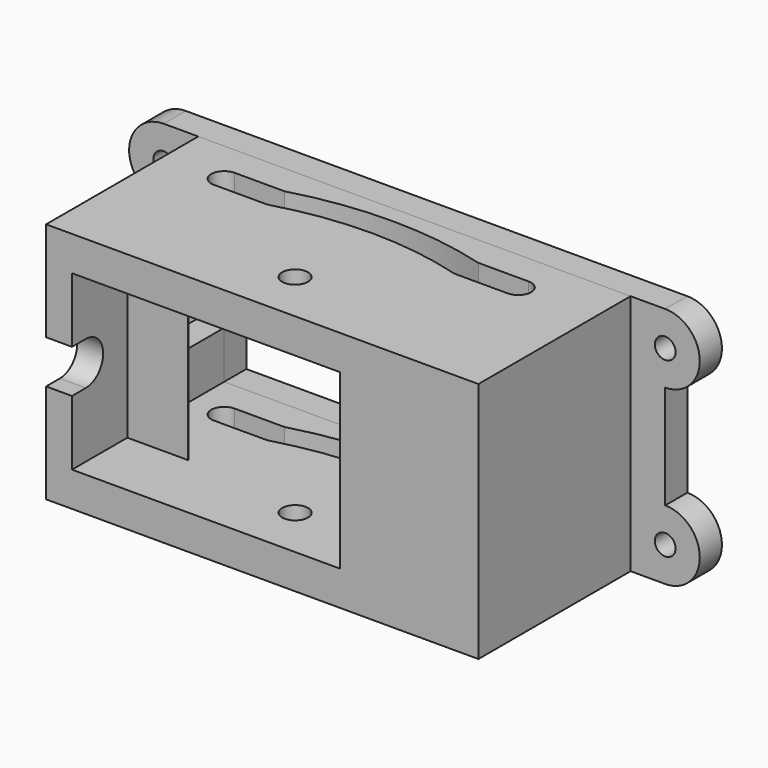
from build123d import *

# Parameters (mm, degrees)
F0_W          = 25
F0_H          = 14
F0_W_2        = 22
F0_H_2        = 10
F1_DEPTH      = 11
F2_R          = 0.75
F3_DEPTH      = 12.5
F4_W          = 4.3
F4_H          = 4.5
F5_DEPTH      = 1.5
F7_DEPTH      = 5
F7_DEPTH_BACK = 5
F8_R          = 0.6
F9_DEPTH      = 1.6


with BuildPart() as f1:
    # F0 (on Front) → F1 (new body)
    with BuildSketch(Plane.XZ):
        Rectangle(F0_W, F0_H)
        Rectangle(F0_W_2, F0_H_2, mode=Mode.SUBTRACT)
    extrude(amount=F1_DEPTH)

    # F2 (on Top) → F3 (cut, symmetric)
    with BuildSketch(Plane.XY):
        with Locations((-0.5, -8)):
            Circle(F2_R)
        with BuildLine():
            Line((-6.75, -2.5), (-6, -2.5))
            ThreePointArc((-6, -2.5), (-5.6384915333, -2.4002553745), (-5.2751764069, -2.3073065675))
            ThreePointArc((-5.2751764069, -2.3073065675), (-5.5428457997, -1.9054328993), (-6, -1.75))
            Line((-6, -1.75), (-6.104165702, -1.75))
            ThreePointArc((-6.104165702, -1.75), (-6.1552263336, -1.7643931667), (-6.20625, -1.7789168304))
            ThreePointArc((-6.20625, -1.7789168304), (-6.5988269784, -2.0484402033), (-6.75, -2.5))
        make_face()
        with BuildLine():
            ThreePointArc((-5.2751764069, -2.3073065675), (-5.6384915333, -2.4002553745), (-6, -2.5))
            Line((-6, -2.5), (-6.75, -2.5))
            ThreePointArc((-6.75, -2.5), (-6.5303300859, -3.0303300859), (-6, -3.25))
            ThreePointArc((-6, -3.25), (-5.8958663772, -3.2427356115), (-5.79375, -3.2210831696))
            ThreePointArc((-5.79375, -3.2210831696), (-5.3477182905, -2.8701737044), (-5.2751764069, -2.3073065675))
        make_face()
        with BuildLine():
            ThreePointArc((-6, -1.75), (-5.5428457997, -1.9054328993), (-5.2751764069, -2.3073065675))
            ThreePointArc((-5.2751764069, -2.3073065675), (-3.2768966077, -1.9226015494), (-1.2498681525, -1.742947023))
            ThreePointArc((-1.2498681525, -1.742947023), (-1.0352788409, -1.2035498083), (-0.5, -0.978884523))
            ThreePointArc((-0.5, -0.978884523), (-3.328484236, -1.1725673206), (-6.104165702, -1.75))
            Line((-6.104165702, -1.75), (-6, -1.75))
        make_face()
        with BuildLine():
            ThreePointArc((-1.2498681525, -1.742947023), (-3.2768966077, -1.9226015494), (-5.2751764069, -2.3073065675))
            ThreePointArc((-5.2751764069, -2.3073065675), (-5.3477182905, -2.8701737044), (-5.79375, -3.2210831696))
            ThreePointArc((-5.79375, -3.2210831696), (-3.1727629849, -2.6653371609), (-0.5, -2.478884523))
            ThreePointArc((-0.5, -2.478884523), (-1.0253347147, -2.2641633639), (-1.2498681525, -1.742947023))
        make_face()
        with BuildLine():
            ThreePointArc((-6, -3.25), (-6.5303300859, -3.0303300859), (-6.75, -2.5))
            ThreePointArc((-6.75, -2.5), (-6.5988269784, -2.0484402033), (-6.20625, -1.7789168304))
            ThreePointArc((-6.20625, -1.7789168304), (-6.1552263336, -1.7643931667), (-6.104165702, -1.75))
            Line((-6.104165702, -1.75), (-9, -1.75))
            ThreePointArc((-9, -1.75), (-9.75, -2.5), (-9, -3.25))
            Line((-9, -3.25), (-6, -3.25))
        make_face()
        with BuildLine():
            ThreePointArc((-0.5, -0.978884523), (-1.0352788409, -1.2035498083), (-1.2498681525, -1.742947023))
            ThreePointArc((-1.2498681525, -1.742947023), (-0.875, -1.7324004571), (-0.5, -1.728884523))
            ThreePointArc((-0.5, -1.728884523), (-0.125, -1.7324004571), (0.2498681525, -1.742947023))
            ThreePointArc((0.2498681525, -1.742947023), (0.0352788409, -1.2035498083), (-0.5, -0.978884523))
        make_face()
        with BuildLine():
            ThreePointArc((-0.5, -1.728884523), (-0.875, -1.7324004571), (-1.2498681525, -1.742947023))
            ThreePointArc((-1.2498681525, -1.742947023), (-1.0253347147, -2.2641633639), (-0.5, -2.478884523))
            ThreePointArc((-0.5, -2.478884523), (0.0253347147, -2.2641633639), (0.2498681525, -1.742947023))
            ThreePointArc((0.2498681525, -1.742947023), (-0.125, -1.7324004571), (-0.5, -1.728884523))
        make_face()
        with BuildLine():
            ThreePointArc((0.2498681525, -1.742947023), (0.0253347147, -2.2641633639), (-0.5, -2.478884523))
            ThreePointArc((-0.5, -2.478884523), (2.1727629849, -2.6653371609), (4.79375, -3.2210831696))
            ThreePointArc((4.79375, -3.2210831696), (4.3477182905, -2.8701737044), (4.2751764069, -2.3073065675))
            ThreePointArc((4.2751764069, -2.3073065675), (2.2768966077, -1.9226015494), (0.2498681525, -1.742947023))
        make_face()
        with BuildLine():
            ThreePointArc((5.104165702, -1.75), (2.328484236, -1.1725673206), (-0.5, -0.978884523))
            ThreePointArc((-0.5, -0.978884523), (0.0352788409, -1.2035498083), (0.2498681525, -1.742947023))
            ThreePointArc((0.2498681525, -1.742947023), (2.2768966077, -1.9226015494), (4.2751764069, -2.3073065675))
            ThreePointArc((4.2751764069, -2.3073065675), (4.5428457997, -1.9054328993), (5, -1.75))
            Line((5, -1.75), (5.104165702, -1.75))
        make_face()
        with BuildLine():
            ThreePointArc((4.2751764069, -2.3073065675), (4.3477182905, -2.8701737044), (4.79375, -3.2210831696))
            ThreePointArc((4.79375, -3.2210831696), (4.8958663772, -3.2427356115), (5, -3.25))
            ThreePointArc((5, -3.25), (5.5303300859, -3.0303300859), (5.75, -2.5))
            Line((5.75, -2.5), (5, -2.5))
            ThreePointArc((5, -2.5), (4.6384915333, -2.4002553745), (4.2751764069, -2.3073065675))
        make_face()
        with BuildLine():
            Line((8, -1.75), (5.104165702, -1.75))
            ThreePointArc((5.104165702, -1.75), (5.1552263336, -1.7643931667), (5.20625, -1.7789168304))
            ThreePointArc((5.20625, -1.7789168304), (5.5988269784, -2.0484402033), (5.75, -2.5))
            ThreePointArc((5.75, -2.5), (5.5303300859, -3.0303300859), (5, -3.25))
            Line((5, -3.25), (8, -3.25))
            ThreePointArc((8, -3.25), (8.75, -2.5), (8, -1.75))
        make_face()
        with BuildLine():
            ThreePointArc((5.20625, -1.7789168304), (5.1552263336, -1.7643931667), (5.104165702, -1.75))
            Line((5.104165702, -1.75), (5, -1.75))
            ThreePointArc((5, -1.75), (4.5428457997, -1.9054328993), (4.2751764069, -2.3073065675))
            ThreePointArc((4.2751764069, -2.3073065675), (4.6384915333, -2.4002553745), (5, -2.5))
            Line((5, -2.5), (5.75, -2.5))
            ThreePointArc((5.75, -2.5), (5.5988269784, -2.0484402033), (5.20625, -1.7789168304))
        make_face()
    extrude(amount=F3_DEPTH, both=True, mode=Mode.SUBTRACT)

    # F4 (on face) → F5 (cut, through all)
    with BuildSketch(Plane(origin=(-12.5, 0, 0), x_dir=(0, -1, 0), z_dir=(-1, 0, 0))):
        with Locations((2.15, 0)):
            Rectangle(F4_W, F4_H)
        with BuildLine():
            Line((11, 1.25), (10, 1.25))
            ThreePointArc((10, 1.25), (8.75, 0), (10, -1.25))
            Line((10, -1.25), (11, -1.25))
            Line((11, -1.25), (11, 1.25))
        make_face()
    extrude(amount=-F5_DEPTH, mode=Mode.SUBTRACT)

    # F6 (on Top) → F7 (join, two sides)
    with BuildSketch(Plane.XY) as f7_sk:
        Polygon((11, -2.439696962), (4.5, -8.939696962), (4.5, -11), (11, -11), align=None)
        Polygon((-7.5, -7), (-7.5, -6.939696962), (-10.939696962, -3.5), (-11, -3.5), (-11, -7), align=None)
    extrude(amount=F7_DEPTH)
    extrude(f7_sk.sketch, amount=-F7_DEPTH_BACK)


with BuildPart() as f9:
    # F8 (on face) → F9 (new body)
    with BuildSketch(Plane(origin=(0, 0, 0), x_dir=(-1, 0, 0), z_dir=(0, 1, 0))):
        with BuildLine():
            Line((11, 2.25), (11, -2.25))
            Line((11, -2.25), (12.5, -2.25))
            Line((12.5, -2.25), (12.5, -7))
            Line((12.5, -7), (14.5, -7))
            ThreePointArc((14.5, -7), (16.5, -5), (14.5, -3))
            Line((14.5, -3), (14.5, 0))
            Line((14.5, 0), (14.5, 3))
            ThreePointArc((14.5, 3), (16.5, 5), (14.5, 7))
            Line((14.5, 7), (12.5, 7))
            Line((12.5, 7), (12.5, 2.25))
            Line((12.5, 2.25), (11, 2.25))
        make_face()
        with Locations((14.5, -5)):
            Circle(F8_R, mode=Mode.SUBTRACT)
        with Locations((14.5, 5)):
            Circle(F8_R, mode=Mode.SUBTRACT)
        Polygon((11, -5), (-11, -5), (-11, 5), (11, 5), (11, 2.25), (12.5, 2.25), (12.5, 7), (-12.5, 7), (-12.5, -7), (12.5, -7), (12.5, -2.25), (11, -2.25), align=None)
        with BuildLine():
            Line((-14.5, -7), (-12.5, -7))
            Line((-12.5, -7), (-12.5, 7))
            Line((-12.5, 7), (-14.5, 7))
            ThreePointArc((-14.5, 7), (-16.5, 5), (-14.5, 3))
            Line((-14.5, 3), (-14.5, 0))
            Line((-14.5, 0), (-14.5, -3))
            ThreePointArc((-14.5, -3), (-16.5, -5), (-14.5, -7))
        make_face()
        with Locations((-14.5, -5)):
            Circle(F8_R, mode=Mode.SUBTRACT)
        with Locations((-14.5, 5)):
            Circle(F8_R, mode=Mode.SUBTRACT)
    extrude(amount=F9_DEPTH)


solid = Compound([f1.part, f9.part])
